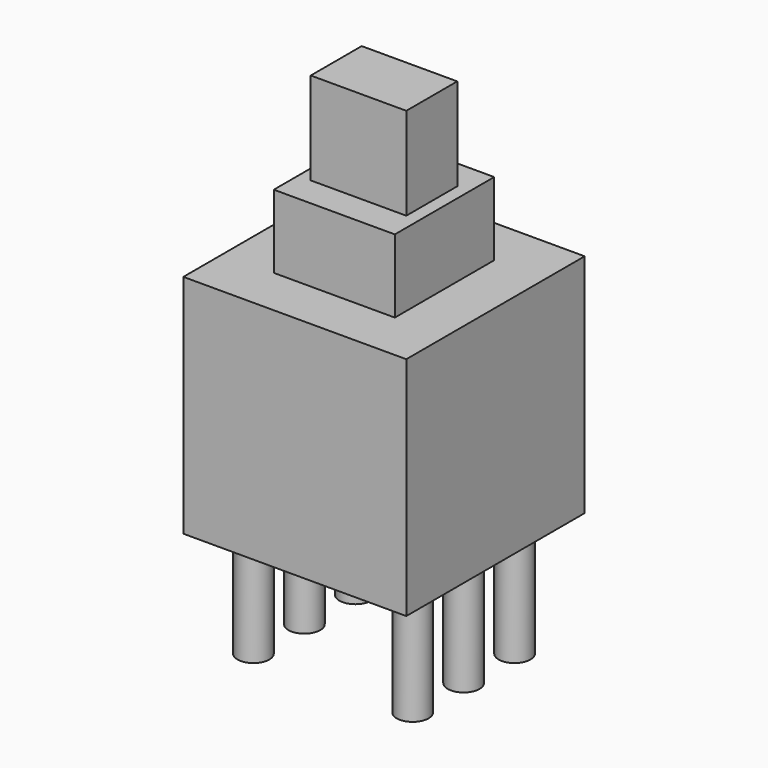
from build123d import *

# Parameters (mm, degrees)
SKETCH069_W             = 7
SKETCH069_H             = 7
PAD039_DEPTH            = 7.1
SKETCH070_R             = 0.5
PAD040_DEPTH            = 3.6
SKETCH071_W             = 3.9
SKETCH071_H             = 3.8
PAD041_DEPTH            = 9.4
SKETCH072_W             = 2
SKETCH072_H             = 3
PAD042_DEPTH            = 12.3
BODY057_PLACEMENT_ANGLE = 90


with BuildPart() as part:
    # Sketch069 → Pad039 (new body)
    with BuildSketch(Plane.XY):
        Rectangle(SKETCH069_W, SKETCH069_H)
    extrude(amount=PAD039_DEPTH)

    # Sketch070 → Pad040 (join)
    with BuildSketch(Plane.XY):
        with Locations((0, 2.5)):
            Circle(SKETCH070_R)
        with Locations((0, -2.5)):
            Circle(SKETCH070_R)
        with Locations((2, 2.5)):
            Circle(SKETCH070_R)
        with Locations((-2, 2.5)):
            Circle(SKETCH070_R)
        with Locations((-2, -2.5)):
            Circle(SKETCH070_R)
        with Locations((2, -2.5)):
            Circle(SKETCH070_R)
    extrude(amount=-PAD040_DEPTH)

    # Sketch071 → Pad041 (join)
    with BuildSketch(Plane.XY):
        Rectangle(SKETCH071_W, SKETCH071_H)
    extrude(amount=PAD041_DEPTH)

    # Sketch072 → Pad042 (join)
    with BuildSketch(Plane.XY):
        Rectangle(SKETCH072_W, SKETCH072_H)
    extrude(amount=PAD042_DEPTH)


with BuildPart() as part_1:
    # Body057 placement: moved
    add(part.part.moved(Location((8.2, 0, 0))).rotate(Axis((8.2, 0, 0), (0, 0, 1)), BODY057_PLACEMENT_ANGLE))


solid = part_1.part
